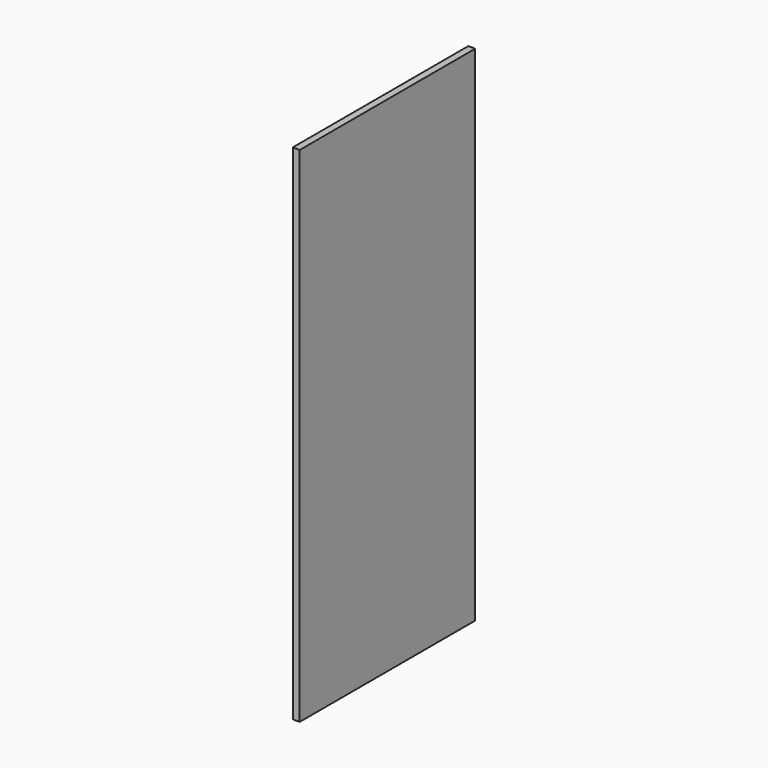
from build123d import *

# Parameters (mm, degrees)
SKETCH002_W  = 600
SKETCH002_H  = 1377
PAD002_DEPTH = 19


with BuildPart() as part:
    # Sketch002 → Pad002 (new body)
    with BuildSketch(Plane.YZ):
        Rectangle(SKETCH002_W, SKETCH002_H)
    extrude(amount=PAD002_DEPTH)


solid = part.part
